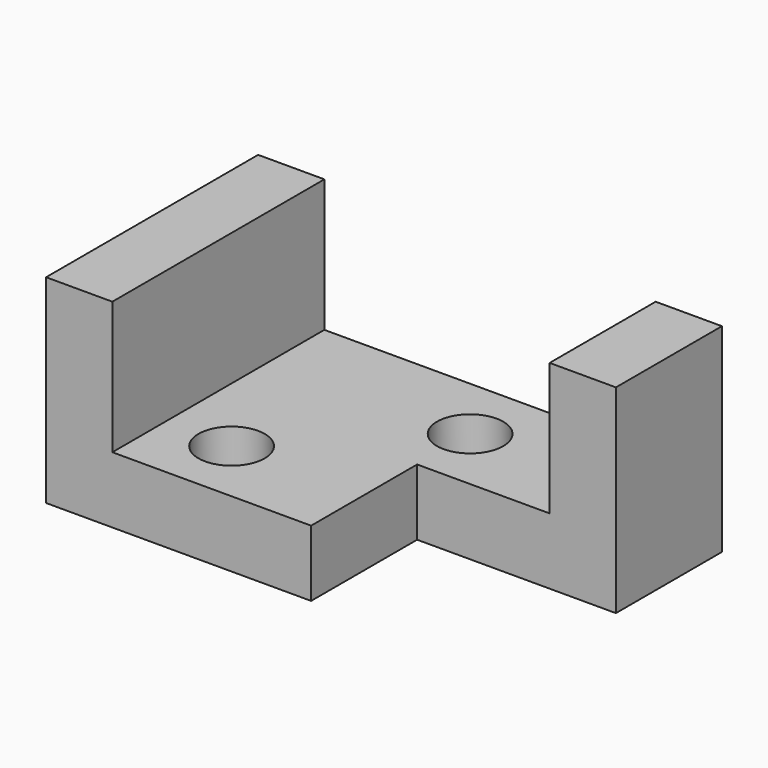
from build123d import *

# Parameters (mm, degrees)
F0_W     = 88.9
F0_H     = 38.1
F1_DEPTH = 50.8
F2_W     = 63.5
F2_H     = 25.4
F3_DEPTH = 50.801
F4_W     = 25.4
F4_H     = 38.1
F5_DEPTH = 38.1
F6_R     = 6.35
F7_DEPTH = 12.701


with BuildPart() as f1:
    # F0 (on Front) → F1 (new body)
    with BuildSketch(Plane.XZ):
        with Locations((-9.995915, -3.738007)):
            Rectangle(F0_W, F0_H)
    extrude(amount=F1_DEPTH)

    # F2 (on face) → F3 (cut, through all)
    with BuildSketch(Plane.XZ.offset(50.8)):
        with Locations((-9.995915, 2.611993)):
            Rectangle(F2_W, F2_H)
    extrude(amount=-F3_DEPTH, mode=Mode.SUBTRACT)

    # F4 (on face) → F5 (cut)
    with BuildSketch(Plane.YZ.offset(34.454085)):
        with Locations((-38.1, -3.738007)):
            Rectangle(F4_W, F4_H)
    extrude(amount=-F5_DEPTH, mode=Mode.SUBTRACT)

    # F6 (on face) → F7 (cut, through all)
    with BuildSketch(Plane.XY.offset(-10.088007)):
        with Locations((-29.045915, -38.1)):
            Circle(F6_R)
        with Locations((-3.645915, -12.7)):
            Circle(F6_R)
    extrude(amount=-F7_DEPTH, mode=Mode.SUBTRACT)


solid = f1.part
